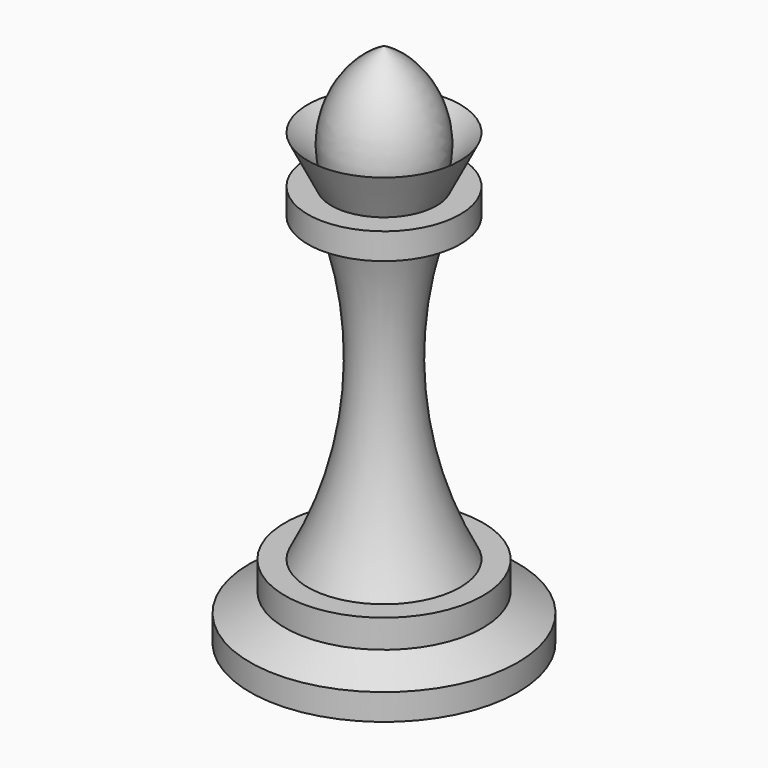
from build123d import *


with BuildPart() as f1:
    # F0 (on Front) → F1 (revolve)
    with BuildSketch(Plane.XZ):
        with BuildLine():
            ThreePointArc((6.844513, 0), (2.923734, 13.347294), (4.720354, 27.142037))
            Line((4.720354, 27.142037), (6.844513, 27.142037))
            Line((6.844513, 27.142037), (6.844513, 29.502213))
            Line((6.844513, 29.502213), (4.720354, 29.502213))
            Line((4.720354, 29.502213), (6.844513, 33.75053))
            Line((6.844513, 33.75053), (4.720354, 31.626374))
            ThreePointArc((4.720354, 31.626374), (3.80197, 36.869549), (0, 40.595047))
            Line((0, 40.595047), (0, 0))
            Line((0, 0), (6.844513, 0))
        make_face()
    revolve(axis=Axis((0, 0, 20.297524), (0, 0, -1)))

    # F2 (on Front) → F3 (revolve)
    with BuildSketch(Plane.XZ):
        Polygon((8.89, 0), (0, 0), (0, -2.54), (0, -6.608495), (12.036904, -6.608495), (12.036904, -4.248319), (8.89, -2.54), align=None)
    revolve(axis=Axis((0, 0, -1.27), (0, 0, 1)))


solid = f1.part
